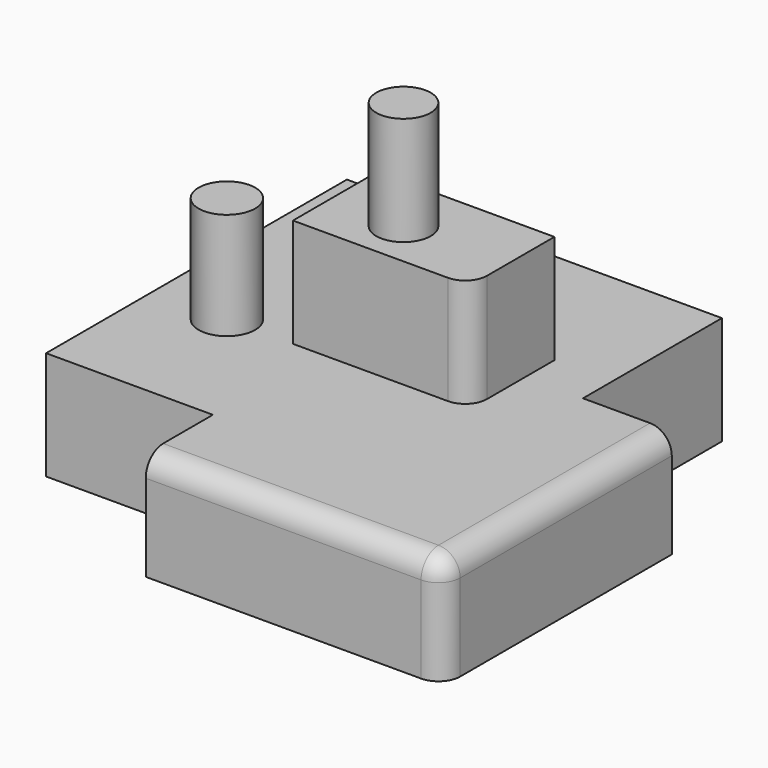
from build123d import *

# Parameters (mm, degrees)
F1_DEPTH  = 25.4
F2_R      = 5.08
F3_R      = 5.08
F4_W      = 41.3342826068
F4_H      = 24.7943252325
F5_DEPTH  = 25.4
F6_R      = 5.08
F7_T      = -2.54
F8_R      = 6.3689638983
F9_DEPTH  = 25.4
F10_R     = 6.6217822458
F11_DEPTH = 25


with BuildPart() as f1:
    # F0 (on Top) → F1 (new body)
    with BuildSketch(Plane.XY):
        Polygon((28.8636367768, 56.9190941751), (-58.8818192482, 56.9190941751), (-58.8818192482, -31.0572721064), (-19.8581814766, -31.0572721064), (-19.8581814766, -50.6845451891), (49.6454536915, -50.6845451891), (49.6454536915, 16.2790901959), (28.8636367768, 16.2790901959), align=None)
    extrude(amount=F1_DEPTH)

    # F2
    f2_edges = [f1.edges().sort_by_distance(p)[0] for p in [
        (14.893636, -50.684545, 25.4),
    ]]
    fillet(f2_edges, radius=F2_R)

    # F3
    f3_edges = [f1.edges().sort_by_distance(p)[0] for p in [
        (49.645454, -14.662727, 25.4),
    ]]
    fillet(f3_edges, radius=F3_R)

    # F4 (on face) → F5 (join)
    with BuildSketch(Plane.XY.offset(25.4)):
        with Locations((-5.3013917059, 12.3971626163)):
            Rectangle(F4_W, F4_H)
    extrude(amount=F5_DEPTH)

    # F6
    f6_edges = [f1.edges().sort_by_distance(p)[0] for p in [
        (15.36575, 0, 38.1),
    ]]
    fillet(f6_edges, radius=F6_R)

    # F7
    f7_openings = [f1.faces().sort_by_distance(p)[0] for p in [
        (-5.684641, 3.684325, 0),
    ]]
    offset(amount=F7_T, openings=f7_openings, kind=Kind.INTERSECTION)

    # F8 (on face) → F9 (join)
    with BuildSketch(Plane.XY.offset(50.8)):
        with Locations((-8.8408561423, 10.9183397144)):
            Circle(F8_R)
    extrude(amount=F9_DEPTH)

    # F10 (on face) → F11 (join)
    with BuildSketch(Plane.XY.offset(25.4)):
        with Locations((-41.423138231, 0)):
            Circle(F10_R)
    extrude(amount=F11_DEPTH)


solid = f1.part
